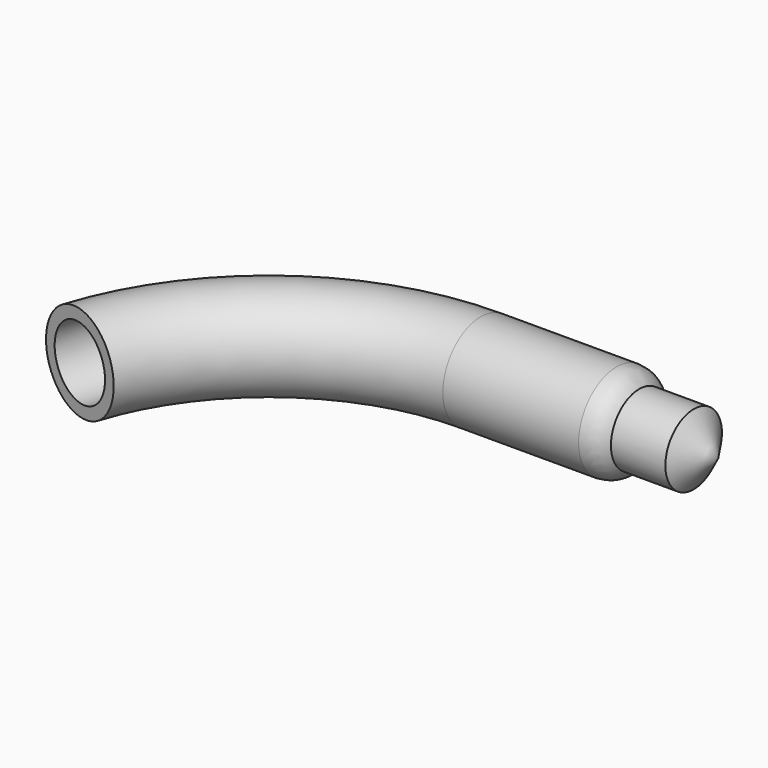
from build123d import *

# Parameters (mm, degrees)
F1_FACE_R   = 44.502169
F1_FACE_R_2 = 33.12343


with BuildPart() as f1:
    # F0 (on Front) → F1 (revolve)
    with BuildSketch(Plane.XZ):
        with BuildLine():
            Line((0, 44.502169), (0, 33.12343))
            Line((0, 33.12343), (45.74028, 33.12343))
            Line((45.74028, 33.12343), (45.74028, 0))
            Line((45.74028, 0), (222.192556, 0))
            Line((222.192556, 0), (199.15238, 33.092961))
            Line((199.15238, 33.092961), (148.204416, 33.092961))
            ThreePointArc((148.204416, 33.092961), (139.06954, 41.467994), (127.053678, 44.502169))
            Line((127.053678, 44.502169), (0, 44.502169))
        make_face()
    revolve(axis=Axis((133.966418, 0, 0), (-1, 0, 0)))

    # F3: sweep along a path in F2
    with BuildLine(Plane.XY) as f3_path:
        ThreePointArc((0, 0), (-146.676191, -47.957327), (-236.68924, -173.302695))
    # F1_face (on face) → F3 (sweep)
    with BuildSketch(Plane(origin=(0, 0, 0), x_dir=(0, -1, 0), z_dir=(-1, 0, 0))):
        Circle(F1_FACE_R)
        Circle(F1_FACE_R_2, mode=Mode.SUBTRACT)
    sweep(path=f3_path.line)


solid = f1.part
